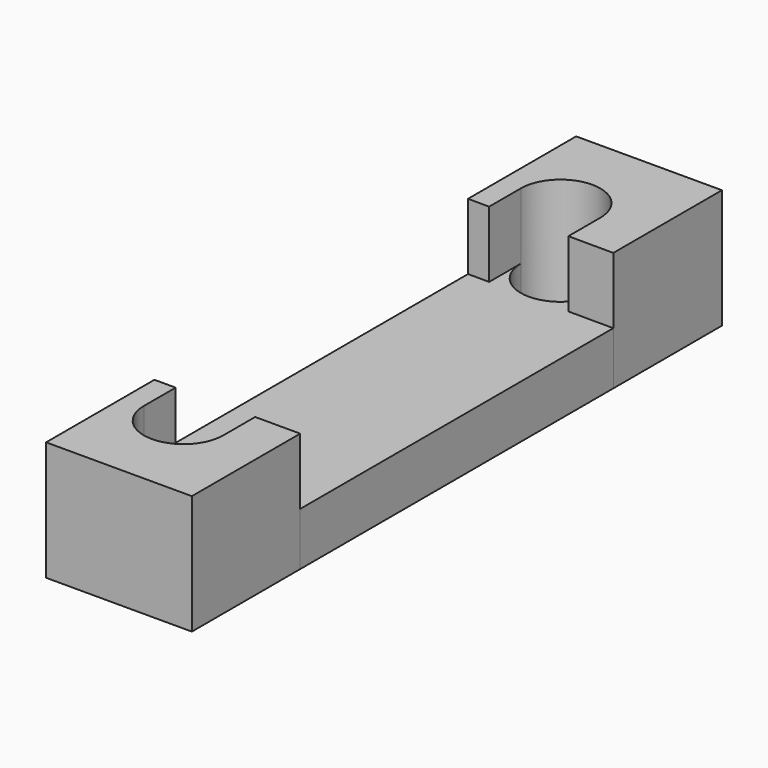
from build123d import *

# Parameters (mm, degrees)
F1_DEPTH = 4.5
F2_DEPTH = 2


with BuildPart() as f1:
    # F0 (on Top) → F1 (new body)
    with BuildSketch(Plane.XY):
        with BuildLine():
            Line((-2.75, -12.5), (2.75, -12.5))
            Line((2.75, -12.5), (2.75, -7.39))
            Line((2.75, -7.39), (1.05, -7.39))
            Line((1.05, -7.39), (1.05, -8.89))
            ThreePointArc((1.05, -8.89), (-0.45, -10.39), (-1.95, -8.89))
            Line((-1.95, -8.89), (-1.95, -7.39))
            Line((-1.95, -7.39), (-2.75, -7.39))
            Line((-2.75, -7.39), (-2.75, -12.5))
        make_face()
        with BuildLine():
            Line((1.05, 7.3837), (2.75, 7.376575))
            Line((2.75, 7.376575), (2.75, 12.5))
            Line((2.75, 12.5), (-2.75, 12.5))
            Line((-2.75, 12.5), (-2.75, 7.399627))
            Line((-2.75, 7.399627), (-1.95, 7.396274))
            Line((-1.95, 7.396274), (-1.95, 8.89))
            ThreePointArc((-1.95, 8.89), (-0.45, 10.39), (1.05, 8.89))
            Line((1.05, 8.89), (1.05, 7.3837))
        make_face()
    extrude(amount=F1_DEPTH)


with BuildPart() as f2:
    # F0 (on Top) → F2 (new body)
    with BuildSketch(Plane.XY):
        with BuildLine():
            Line((1.05, -7.39), (2.75, -7.39))
            Line((2.75, -7.39), (2.75, 7.376575))
            Line((2.75, 7.376575), (1.05, 7.3837))
            Line((1.05, 7.3837), (1.05, 8.89))
            ThreePointArc((1.05, 8.89), (-0.45, 7.39), (-1.95, 8.89))
            Line((-1.95, 8.89), (-1.95, 7.396274))
            Line((-1.95, 7.396274), (-2.75, 7.399627))
            Line((-2.75, 7.399627), (-2.75, -7.39))
            Line((-2.75, -7.39), (-1.95, -7.39))
            Line((-1.95, -7.39), (-1.95, -8.89))
            ThreePointArc((-1.95, -8.89), (-0.45, -7.39), (1.05, -8.89))
            Line((1.05, -8.89), (1.05, -7.39))
        make_face()
    extrude(amount=F2_DEPTH)


solid = Compound([f1.part, f2.part])
